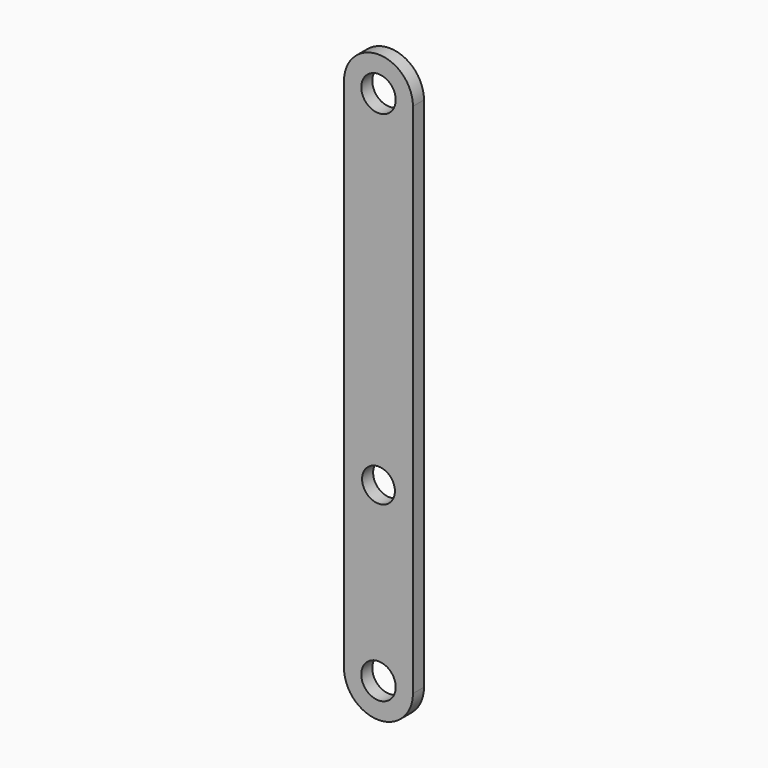
from build123d import *

# Parameters (mm, degrees)
F0_R     = 2.5
F0_R_2   = 2.378566
F1_DEPTH = 2


with BuildPart() as f1:
    # F0 (on Front) → F1 (new body)
    with BuildSketch(Plane.XZ):
        with BuildLine():
            Line((5, -28.759506), (5, 46.240494))
            ThreePointArc((5, 46.240494), (0, 51.240494), (-5, 46.240494))
            Line((-5, 46.240494), (-5, -28.759506))
            ThreePointArc((-5, -28.759506), (0, -33.759506), (5, -28.759506))
        make_face()
        with Locations((0, -28.759506)):
            Circle(F0_R, mode=Mode.SUBTRACT)
        with Locations((0, -3.759506)):
            Circle(F0_R_2, mode=Mode.SUBTRACT)
        with Locations((0, 46.240494)):
            Circle(F0_R, mode=Mode.SUBTRACT)
    extrude(amount=F1_DEPTH)


solid = f1.part
